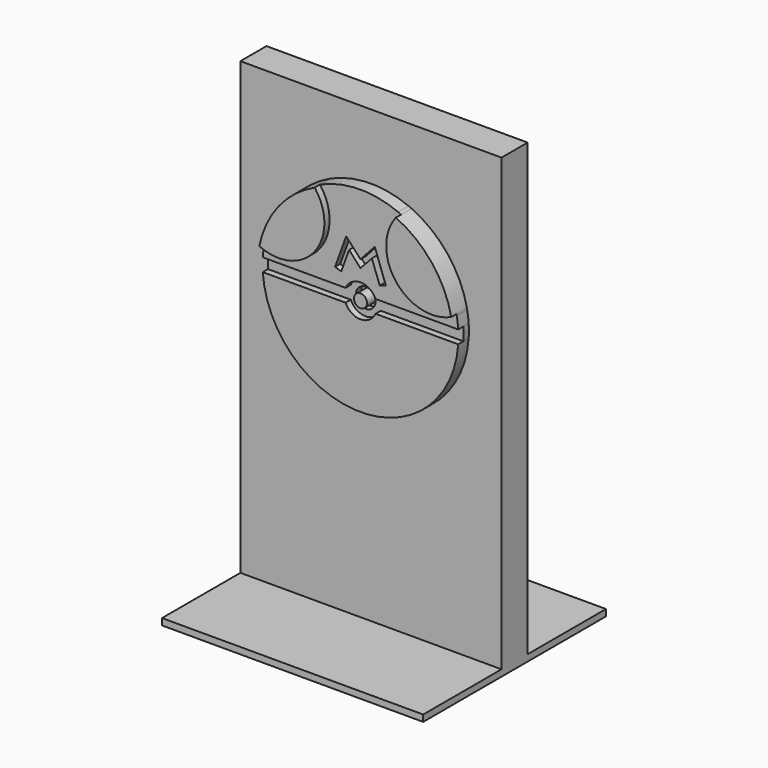
from build123d import *

# Parameters (mm, degrees)
F0_W          = 101.6
F0_H          = 175.26
F1_DEPTH      = 12.7
F0_H_2        = 2.54
F2_DEPTH      = 50.8
F2_DEPTH_BACK = 38.1
F4_DEPTH      = 7.62
F3_R          = 2.54
F5_DEPTH      = 5.08
F3_R_2        = 3.81
F6_DEPTH      = 2.54


with BuildPart() as f1:
    # F0 (on Front) → F1 (new body)
    with BuildSketch(Plane.XZ):
        with Locations((50.8, 90.17)):
            Rectangle(F0_W, F0_H)
    extrude(amount=F1_DEPTH)

    # F0 (on Front) → F2 (join, two sides)
    with BuildSketch(Plane.XZ) as f2_sk:
        with Locations((50.8, 1.27)):
            Rectangle(F0_W, F0_H_2)
        with Locations((50.8, 1.27)):
            Rectangle(F0_W, F0_H_2)
    extrude(amount=F2_DEPTH)
    extrude(f2_sk.sketch, amount=-F2_DEPTH_BACK)

    # F3 (on face) → F4 (join)
    with BuildSketch(Plane.XZ.offset(12.7)):
        with BuildLine():
            ThreePointArc((66.593426, 148.972434), (66.697351, 126.95609), (88.130224, 121.92))
            ThreePointArc((88.130224, 121.92), (80.607534, 138.030169), (66.593426, 148.972434))
        make_face()
        with BuildLine():
            ThreePointArc((13.469776, 121.92), (34.902649, 126.95609), (35.006574, 148.972434))
            ThreePointArc((35.006574, 148.972434), (20.992466, 138.030169), (13.469776, 121.92))
        make_face()
    extrude(amount=F4_DEPTH)

    # F3 (on face) → F5 (join)
    with BuildSketch(Plane.XZ.offset(12.7)):
        with BuildLine():
            ThreePointArc((12.784761, 111.76), (50.8, 76.2), (88.815239, 111.76))
            Line((88.815239, 111.76), (56.619871, 111.76))
            ThreePointArc((56.619871, 111.76), (50.8, 107.95), (44.980129, 111.76))
            Line((44.980129, 111.76), (12.784761, 111.76))
        make_face()
        with BuildLine():
            Line((56.619871, 116.84), (88.815239, 116.84))
            ThreePointArc((88.815239, 116.84), (88.5956, 119.106519), (88.24095, 121.355868))
            ThreePointArc((88.24095, 121.355868), (88.186651, 121.638143), (88.130224, 121.92))
            ThreePointArc((88.130224, 121.92), (66.697351, 126.95609), (66.593426, 148.972434))
            ThreePointArc((66.593426, 148.972434), (66.013621, 149.230727), (65.429595, 149.479326))
            ThreePointArc((65.429595, 149.479326), (50.361762, 152.39748), (35.365042, 149.133491))
            ThreePointArc((35.365042, 149.133491), (35.1856, 149.053425), (35.006574, 148.972434))
            ThreePointArc((35.006574, 148.972434), (34.902649, 126.95609), (13.469776, 121.92))
            ThreePointArc((13.469776, 121.92), (13.390944, 121.523058), (13.316333, 121.125301))
            ThreePointArc((13.316333, 121.125301), (12.989788, 118.990187), (12.784761, 116.84))
            Line((12.784761, 116.84), (44.980129, 116.84))
            ThreePointArc((44.980129, 116.84), (50.8, 120.65), (56.619871, 116.84))
        make_face()
        Polygon((43.324096, 121.942925), (40.894, 122.682), (45.237656, 134.616096), (50.8, 128.524), (56.362344, 134.616096), (60.706, 122.682), (58.275904, 121.942925), (55.235345, 130.296792), (50.8, 125.476), (46.364655, 130.296792), align=None, mode=Mode.SUBTRACT)
        with Locations((50.8, 114.3)):
            Circle(F3_R)
    extrude(amount=F5_DEPTH)

    # F3 (on face) → F6 (join)
    with BuildSketch(Plane.XZ.offset(12.7)):
        with BuildLine():
            ThreePointArc((12.784761, 116.84), (12.7, 114.3), (12.784761, 111.76))
            Line((12.784761, 111.76), (44.980129, 111.76))
            ThreePointArc((44.980129, 111.76), (44.45, 114.3), (44.980129, 116.84))
            Line((44.980129, 116.84), (12.784761, 116.84))
        make_face()
        with BuildLine():
            ThreePointArc((57.15, 114.3), (57.016055, 115.597366), (56.619871, 116.84))
            ThreePointArc((56.619871, 116.84), (50.8, 120.65), (44.980129, 116.84))
            ThreePointArc((44.980129, 116.84), (44.45, 114.3), (44.980129, 111.76))
            ThreePointArc((44.980129, 111.76), (50.8, 107.95), (56.619871, 111.76))
            ThreePointArc((56.619871, 111.76), (57.016055, 113.002634), (57.15, 114.3))
        make_face()
        with Locations((50.8, 114.3)):
            Circle(F3_R_2, mode=Mode.SUBTRACT)
        with BuildLine():
            ThreePointArc((88.815239, 111.76), (88.878804, 113.029293), (88.9, 114.3))
            ThreePointArc((88.9, 114.3), (88.878804, 115.570707), (88.815239, 116.84))
            Line((88.815239, 116.84), (56.619871, 116.84))
            ThreePointArc((56.619871, 116.84), (57.016055, 115.597366), (57.15, 114.3))
            ThreePointArc((57.15, 114.3), (57.016055, 113.002634), (56.619871, 111.76))
            Line((56.619871, 111.76), (88.815239, 111.76))
        make_face()
        Polygon((45.237656, 134.616096), (40.894, 122.682), (43.324096, 121.942925), (46.364655, 130.296792), (50.8, 125.476), (55.235345, 130.296792), (58.275904, 121.942925), (60.706, 122.682), (56.362344, 134.616096), (50.8, 128.524), align=None)
    extrude(amount=F6_DEPTH)


solid = f1.part
